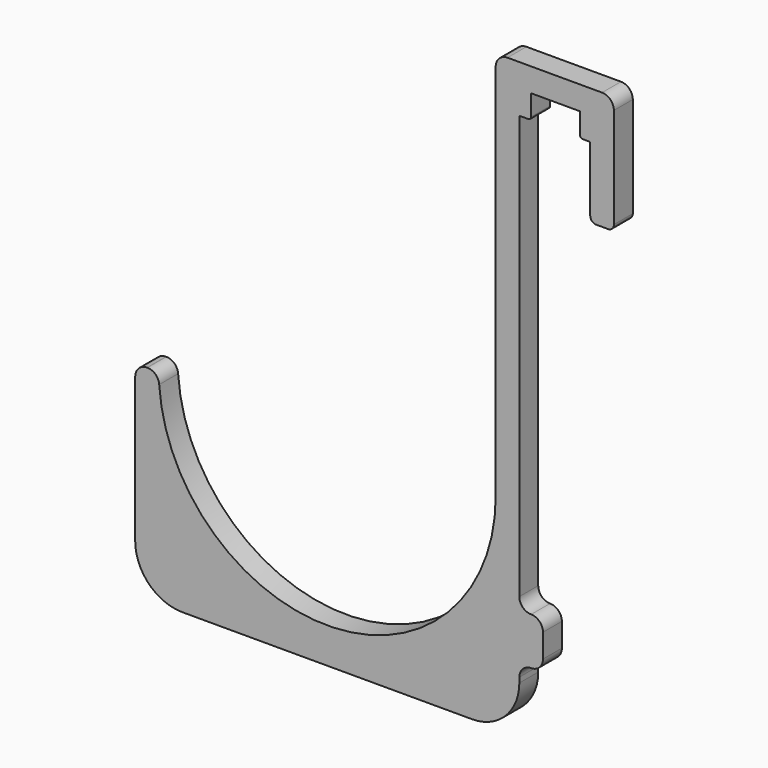
from build123d import *

# Parameters (mm, degrees)
F1_DEPTH = 12.7


with BuildPart() as f1:
    # F0 (on Front) → F1 (new body)
    with BuildSketch(Plane.XZ):
        with BuildLine():
            ThreePointArc((90.4875, 0), (2.968401, -90.438798), (-90.292746, -5.933607))
            ThreePointArc((-90.292746, -5.933607), (-92.288664, -1.714992), (-96.629079, 0))
            Line((-96.629079, 0), (-96.8375, 0))
            ThreePointArc((-96.8375, 0), (-101.327628, -1.859872), (-103.1875, -6.35))
            Line((-103.1875, -6.35), (-103.1875, -84.1375))
            ThreePointArc((-103.1875, -84.1375), (-95.748012, -102.098012), (-77.7875, -109.5375))
            Line((-77.7875, -109.5375), (77.7875, -109.5375))
            ThreePointArc((77.7875, -109.5375), (95.748012, -102.098012), (103.1875, -84.1375))
            Line((103.1875, -84.1375), (103.1875, -81.39552))
            ThreePointArc((103.1875, -81.39552), (105.047372, -76.905392), (109.5375, -75.04552))
            ThreePointArc((109.5375, -75.04552), (114.027628, -73.185648), (115.8875, -68.69552))
            Line((115.8875, -68.69552), (115.8875, -55.99552))
            ThreePointArc((115.8875, -55.99552), (114.027628, -51.505392), (109.5375, -49.64552))
            ThreePointArc((109.5375, -49.64552), (105.047372, -47.785648), (103.1875, -43.29552))
            Line((103.1875, -43.29552), (103.1875, 184.15))
            Line((103.1875, 184.15), (108.0135, 184.15))
            ThreePointArc((108.0135, 184.15), (109.091131, 184.596369), (109.5375, 185.674))
            Line((109.5375, 185.674), (109.5375, 196.85))
            Line((109.5375, 196.85), (135.6995, 196.85))
            Line((135.6995, 196.85), (135.6995, 185.674))
            ThreePointArc((135.6995, 185.674), (136.145869, 184.596369), (137.2235, 184.15))
            Line((137.2235, 184.15), (141.2875, 184.15))
            Line((141.2875, 184.15), (141.2875, 149.225))
            ThreePointArc((141.2875, 149.225), (142.217436, 146.979936), (144.4625, 146.05))
            Line((144.4625, 146.05), (150.8125, 146.05))
            ThreePointArc((150.8125, 146.05), (153.057564, 146.979936), (153.9875, 149.225))
            Line((153.9875, 149.225), (153.9875, 203.2))
            ThreePointArc((153.9875, 203.2), (152.127628, 207.690128), (147.6375, 209.55))
            Line((147.6375, 209.55), (96.8375, 209.55))
            ThreePointArc((96.8375, 209.55), (92.347372, 207.690128), (90.4875, 203.2))
            Line((90.4875, 203.2), (90.4875, 0))
        make_face()
    extrude(amount=F1_DEPTH)


solid = f1.part
